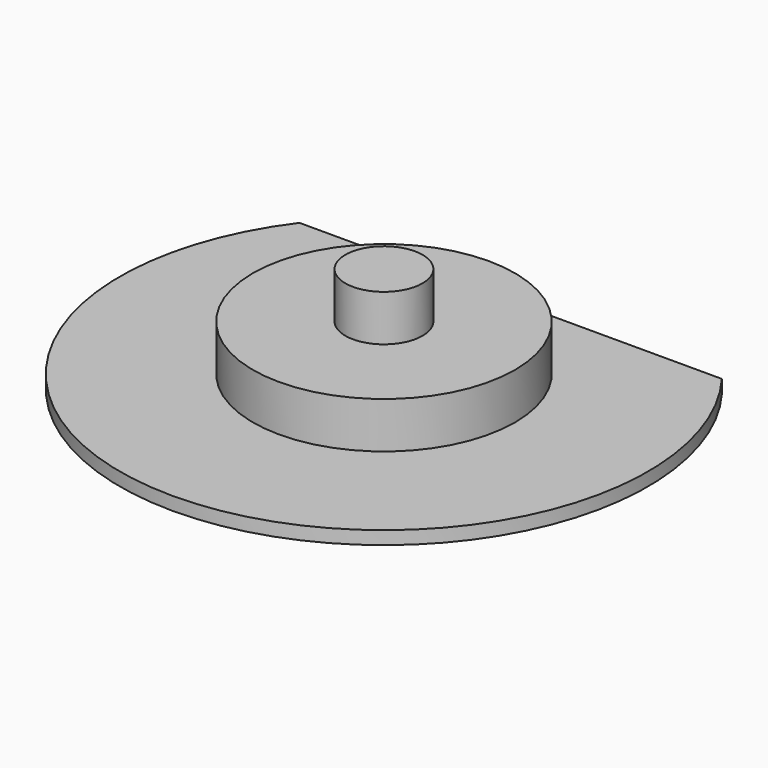
from build123d import *

# Parameters (mm, degrees)
F0_R     = 20
F1_DEPTH = 1
F2_R     = 9.925
F3_DEPTH = 3.5
F4_R     = 2.925
F5_DEPTH = 3.5
F6_W     = 16
F6_H     = 9
F7_DEPTH = 25


with BuildPart() as f1:
    # F0 (on Top) → F1 (new body)
    with BuildSketch(Plane.XY):
        Circle(F0_R)
    extrude(amount=F1_DEPTH)

    # F2 (on face) → F3 (join)
    with BuildSketch(Plane.XY.offset(1)):
        Circle(F2_R)
    extrude(amount=F3_DEPTH)

    # F4 (on face) → F5 (join)
    with BuildSketch(Plane.XY.offset(4.5)):
        Circle(F4_R)
    extrude(amount=F5_DEPTH)

    # F6 (on face) → F7 (cut)
    with BuildSketch(Plane.XY.offset(1)):
        with Locations((8, 16.5)):
            Rectangle(F6_W, F6_H)
        with Locations((-8, 16.5)):
            Rectangle(F6_W, F6_H)
    extrude(amount=-F7_DEPTH, mode=Mode.SUBTRACT)


solid = f1.part
